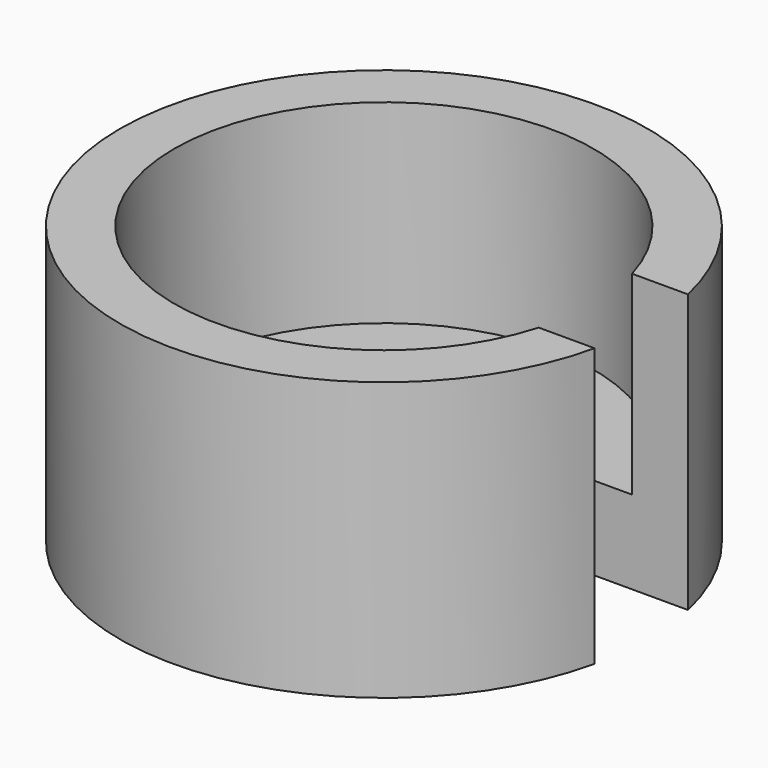
from build123d import *

# Parameters (mm, degrees)
F1_DEPTH = 10
F2_DEPTH = 3


with BuildPart() as f1:
    # F0 (on Top) → F1 (new body)
    with BuildSketch(Plane.XY):
        with BuildLine():
            ThreePointArc((7.2520686704, -2.1), (-7.55, 0), (7.2520686704, 2.1))
            Line((7.2520686704, 2.1), (9.2649878575, 2.1))
            ThreePointArc((9.2649878575, 2.1), (-9.5, 0), (9.2649878575, -2.1))
            Line((9.2649878575, -2.1), (7.2520686704, -2.1))
        make_face()
    extrude(amount=F1_DEPTH)

    # F0 (on Top) → F2 (join)
    with BuildSketch(Plane.XY):
        with BuildLine():
            Line((1.1618950039, 2.1), (7.2520686704, 2.1))
            ThreePointArc((7.2520686704, 2.1), (-7.55, 0), (7.2520686704, -2.1))
            Line((7.2520686704, -2.1), (1.1618950039, -2.1))
            ThreePointArc((1.1618950039, -2.1), (-2.4, 0), (1.1618950039, 2.1))
        make_face()
    extrude(amount=F2_DEPTH)


solid = f1.part
